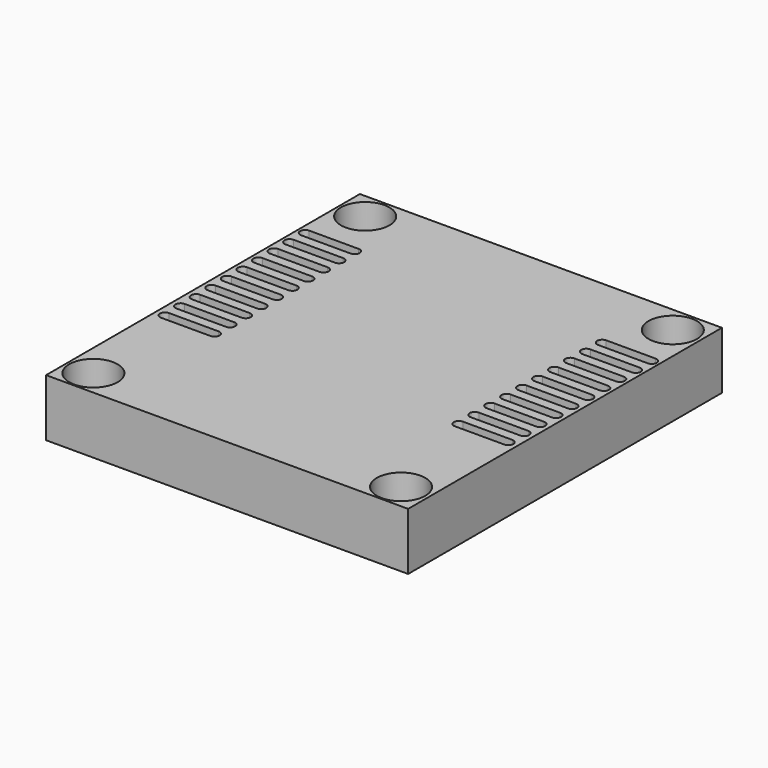
from build123d import *

# Parameters (mm, degrees)
F0_W     = 30.48
F0_H     = 33.02
F1_DEPTH = 4.826
F2_R     = 2.042368
F3_DEPTH = 9.33468
F5_DEPTH = 25


with BuildPart() as f1:
    # F0 (on Top) → F1 (new body)
    with BuildSketch(Plane.XY):
        Rectangle(F0_W, F0_H)
    extrude(amount=-F1_DEPTH)

    # F2 (on face) → F3 (cut)
    with BuildSketch(Plane.XY):
        with Locations((-12.981394, 14.244457)):
            Circle(F2_R)
        with Locations((12.917756, 14.244457)):
            Circle(F2_R)
        with Locations((-12.981394, -14.352153)):
            Circle(F2_R)
        with Locations((12.917756, -14.352153)):
            Circle(F2_R)
    extrude(amount=-F3_DEPTH, mode=Mode.SUBTRACT)

    # F4 (on face) → F5 (cut)
    with BuildSketch(Plane.XY):
        with BuildLine():
            Line((-10.418985, 10.360999), (-14.586995, 10.360999))
            ThreePointArc((-14.586995, 10.360999), (-15.010861, 9.937134), (-14.586995, 9.513268))
            Line((-14.586995, 9.513268), (-10.418985, 9.513268))
            ThreePointArc((-10.418985, 9.513268), (-9.99512, 9.937134), (-10.418985, 10.360999))
        make_face()
        with BuildLine():
            Line((-10.404113, 8.703026), (-14.572124, 8.703026))
            ThreePointArc((-14.572124, 8.703026), (-14.995989, 8.27916), (-14.572124, 7.855295))
            Line((-14.572124, 7.855295), (-10.404113, 7.855295))
            ThreePointArc((-10.404113, 7.855295), (-9.980248, 8.27916), (-10.404113, 8.703026))
        make_face()
        with BuildLine():
            Line((-10.389242, 7.045052), (-14.557252, 7.045052))
            ThreePointArc((-14.557252, 7.045052), (-14.981118, 6.621187), (-14.557252, 6.197322))
            Line((-14.557252, 6.197322), (-10.389242, 6.197322))
            ThreePointArc((-10.389242, 6.197322), (-9.965376, 6.621187), (-10.389242, 7.045052))
        make_face()
        with BuildLine():
            Line((-10.37437, 5.387079), (-14.542381, 5.387079))
            ThreePointArc((-14.542381, 5.387079), (-14.966246, 4.963214), (-14.542381, 4.539348))
            Line((-14.542381, 4.539348), (-10.37437, 4.539348))
            ThreePointArc((-10.37437, 4.539348), (-9.950505, 4.963214), (-10.37437, 5.387079))
        make_face()
        with BuildLine():
            Line((-10.359499, 3.729106), (-14.527509, 3.729106))
            ThreePointArc((-14.527509, 3.729106), (-14.951374, 3.30524), (-14.527509, 2.881375))
            Line((-14.527509, 2.881375), (-10.359499, 2.881375))
            ThreePointArc((-10.359499, 2.881375), (-9.935633, 3.30524), (-10.359499, 3.729106))
        make_face()
        with BuildLine():
            Line((-10.344627, 2.071133), (-14.512637, 2.071133))
            ThreePointArc((-14.512637, 2.071133), (-14.936503, 1.647267), (-14.512637, 1.223402))
            Line((-14.512637, 1.223402), (-10.344627, 1.223402))
            ThreePointArc((-10.344627, 1.223402), (-9.920762, 1.647267), (-10.344627, 2.071133))
        make_face()
        with BuildLine():
            Line((-10.329755, 0.413159), (-14.497766, 0.413159))
            ThreePointArc((-14.497766, 0.413159), (-14.921631, -0.010706), (-14.497766, -0.434572))
            Line((-14.497766, -0.434572), (-10.329755, -0.434572))
            ThreePointArc((-10.329755, -0.434572), (-9.90589, -0.010706), (-10.329755, 0.413159))
        make_face()
        with BuildLine():
            Line((-10.314884, -1.244814), (-14.482894, -1.244814))
            ThreePointArc((-14.482894, -1.244814), (-14.90676, -1.668679), (-14.482894, -2.092545))
            Line((-14.482894, -2.092545), (-10.314884, -2.092545))
            ThreePointArc((-10.314884, -2.092545), (-9.891018, -1.668679), (-10.314884, -1.244814))
        make_face()
        with BuildLine():
            Line((-10.300012, -2.902787), (-14.468023, -2.902787))
            ThreePointArc((-14.468023, -2.902787), (-14.891888, -3.326653), (-14.468023, -3.750518))
            Line((-14.468023, -3.750518), (-10.300012, -3.750518))
            ThreePointArc((-10.300012, -3.750518), (-9.876147, -3.326653), (-10.300012, -2.902787))
        make_face()
        with BuildLine():
            Line((-10.285141, -4.560761), (-14.453151, -4.560761))
            ThreePointArc((-14.453151, -4.560761), (-14.877016, -4.984626), (-14.453151, -5.408491))
            Line((-14.453151, -5.408491), (-10.285141, -5.408491))
            ThreePointArc((-10.285141, -5.408491), (-9.861275, -4.984626), (-10.285141, -4.560761))
        make_face()
        with BuildLine():
            ThreePointArc((14.586995, 9.513268), (15.010861, 9.937134), (14.586995, 10.360999))
            Line((14.586995, 10.360999), (10.418985, 10.360999))
            ThreePointArc((10.418985, 10.360999), (9.99512, 9.937134), (10.418985, 9.513268))
            Line((10.418985, 9.513268), (14.586995, 9.513268))
        make_face()
        with BuildLine():
            ThreePointArc((14.572124, 7.855295), (14.995989, 8.27916), (14.572124, 8.703026))
            Line((14.572124, 8.703026), (10.404113, 8.703026))
            ThreePointArc((10.404113, 8.703026), (9.980248, 8.27916), (10.404113, 7.855295))
            Line((10.404113, 7.855295), (14.572124, 7.855295))
        make_face()
        with BuildLine():
            ThreePointArc((14.557252, 6.197322), (14.981118, 6.621187), (14.557252, 7.045052))
            Line((14.557252, 7.045052), (10.389242, 7.045052))
            ThreePointArc((10.389242, 7.045052), (9.965376, 6.621187), (10.389242, 6.197322))
            Line((10.389242, 6.197322), (14.557252, 6.197322))
        make_face()
        with BuildLine():
            ThreePointArc((14.542381, 4.539348), (14.966246, 4.963214), (14.542381, 5.387079))
            Line((14.542381, 5.387079), (10.37437, 5.387079))
            ThreePointArc((10.37437, 5.387079), (9.950505, 4.963214), (10.37437, 4.539348))
            Line((10.37437, 4.539348), (14.542381, 4.539348))
        make_face()
        with BuildLine():
            ThreePointArc((14.527509, 2.881375), (14.951374, 3.30524), (14.527509, 3.729106))
            Line((14.527509, 3.729106), (10.359499, 3.729106))
            ThreePointArc((10.359499, 3.729106), (9.935633, 3.30524), (10.359499, 2.881375))
            Line((10.359499, 2.881375), (14.527509, 2.881375))
        make_face()
        with BuildLine():
            ThreePointArc((14.512637, 1.223402), (14.936503, 1.647267), (14.512637, 2.071133))
            Line((14.512637, 2.071133), (10.344627, 2.071133))
            ThreePointArc((10.344627, 2.071133), (9.920762, 1.647267), (10.344627, 1.223402))
            Line((10.344627, 1.223402), (14.512637, 1.223402))
        make_face()
        with BuildLine():
            ThreePointArc((14.497766, -0.434572), (14.921631, -0.010706), (14.497766, 0.413159))
            Line((14.497766, 0.413159), (10.329755, 0.413159))
            ThreePointArc((10.329755, 0.413159), (9.90589, -0.010706), (10.329755, -0.434572))
            Line((10.329755, -0.434572), (14.497766, -0.434572))
        make_face()
        with BuildLine():
            ThreePointArc((14.482894, -2.092545), (14.90676, -1.668679), (14.482894, -1.244814))
            Line((14.482894, -1.244814), (10.314884, -1.244814))
            ThreePointArc((10.314884, -1.244814), (9.891018, -1.668679), (10.314884, -2.092545))
            Line((10.314884, -2.092545), (14.482894, -2.092545))
        make_face()
        with BuildLine():
            ThreePointArc((14.468023, -3.750518), (14.891888, -3.326653), (14.468023, -2.902787))
            Line((14.468023, -2.902787), (10.300012, -2.902787))
            ThreePointArc((10.300012, -2.902787), (9.876147, -3.326653), (10.300012, -3.750518))
            Line((10.300012, -3.750518), (14.468023, -3.750518))
        make_face()
        with BuildLine():
            ThreePointArc((14.453151, -5.408491), (14.877016, -4.984626), (14.453151, -4.560761))
            Line((14.453151, -4.560761), (10.285141, -4.560761))
            ThreePointArc((10.285141, -4.560761), (9.861275, -4.984626), (10.285141, -5.408491))
            Line((10.285141, -5.408491), (14.453151, -5.408491))
        make_face()
    extrude(amount=-F5_DEPTH, mode=Mode.SUBTRACT)


solid = f1.part
